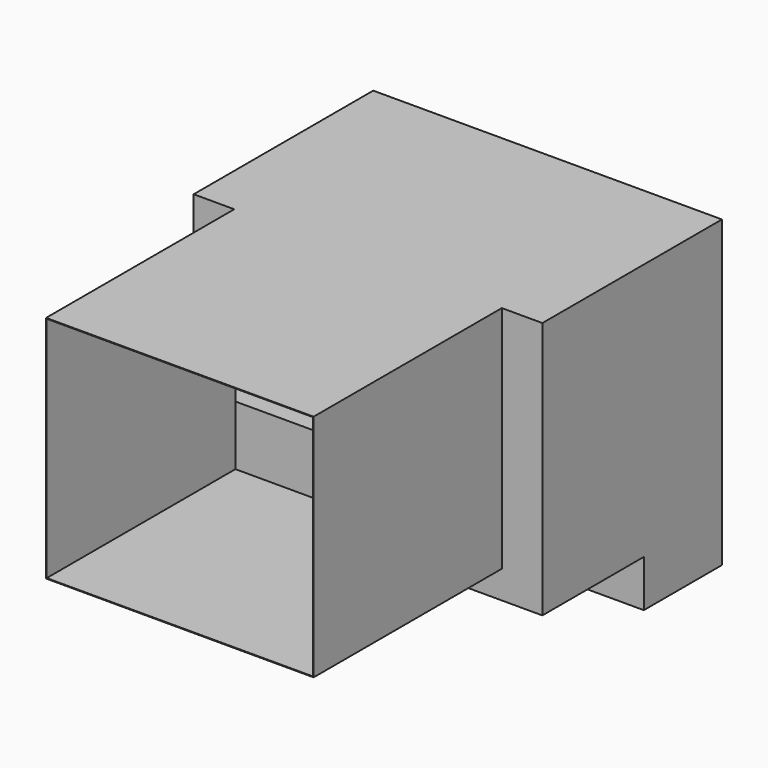
from build123d import *

# Parameters (mm, degrees)
F0_W     = 70
F0_H     = 470
F1_DEPTH = 685
F0_W_2   = 930
F0_H_2   = 900
F2_DEPTH = 525
F3_T     = 2.5
F4_DEPTH = 685
F5_DEPTH = 75


with BuildPart() as f1:
    # F0 (on Right) → F1 (new body, symmetric)
    with BuildSketch(Plane.YZ):
        Polygon((0, -725), (0, 0), (-880, 0), (-880, -900), (-880, -1010), (-860, -1010), (-860, -678.4179210663), (-310, -678.4179210663), (-310, -1010), (-380, -1010), (-380, -1195), (-70, -1195), (-70, -725), align=None)
        with Locations((-35, -960)):
            Rectangle(F0_W, F0_H)
        Polygon((-860, -678.4179210663), (-860, -1010), (-380, -1010), (-310, -1010), (-310, -678.4179210663), align=None)
    extrude(amount=F1_DEPTH, both=True)

    # F0 (on Right) → F2 (join, symmetric)
    with BuildSketch(Plane.YZ):
        with Locations((-1345, -450)):
            Rectangle(F0_W_2, F0_H_2)
    extrude(amount=F2_DEPTH, both=True)

    # F3
    f3_openings = [f1.faces().sort_by_distance(p)[0] for p in [
        (0, -1810, -450),
    ]]
    offset(amount=F3_T, openings=f3_openings, kind=Kind.INTERSECTION)

    # F0 (on Right) → F4 (join, symmetric)
    with BuildSketch(Plane.YZ):
        Polygon((-860, -678.4179210663), (-860, -1010), (-380, -1010), (-310, -1010), (-310, -678.4179210663), align=None)
    extrude(amount=F4_DEPTH, both=True)

    # F0 (on Right) → F5 (join, symmetric)
    with BuildSketch(Plane.YZ):
        with Locations((-35, -960)):
            Rectangle(F0_W, F0_H)
    extrude(amount=F5_DEPTH, both=True)


solid = f1.part
